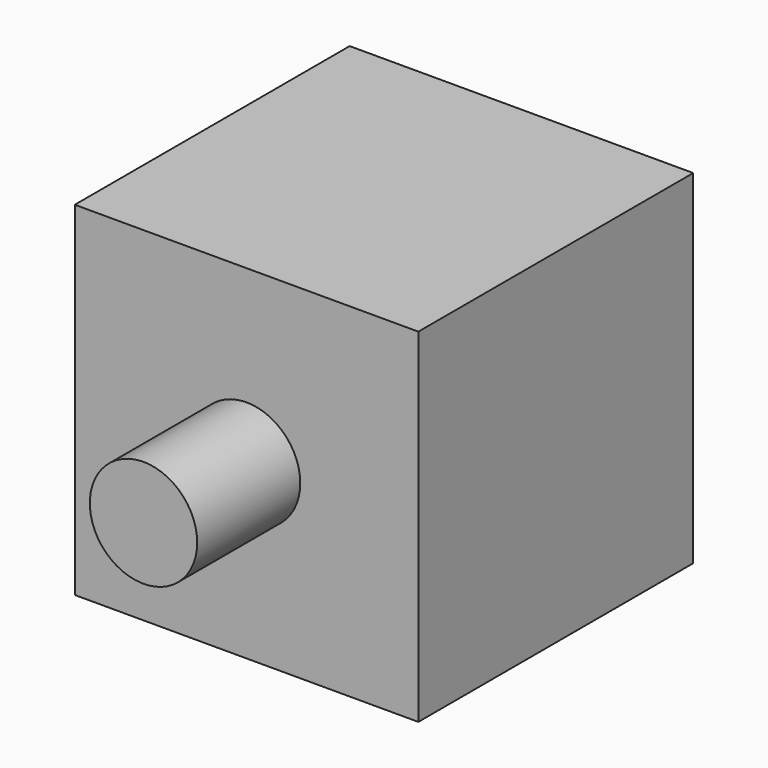
from build123d import *

# Parameters (mm, degrees)
F0_W     = 100
F0_H     = 100
F1_DEPTH = 50
F2_R     = 15.625
F3_DEPTH = 37.5
F2_R_2   = 31.25
F4_DEPTH = 50


with BuildPart() as f1:
    # F0 (on Front) → F1 (new body, symmetric)
    with BuildSketch(Plane.XZ):
        Rectangle(F0_W, F0_H)
    extrude(amount=F1_DEPTH, both=True)

    # F2 (on face) → F3 (join, symmetric)
    with BuildSketch(Plane.XZ.offset(50)):
        Circle(F2_R)
    extrude(amount=F3_DEPTH, both=True)

    # F2 (on face) → F4 (join)
    with BuildSketch(Plane.XZ.offset(50)):
        Circle(F2_R_2)
        Circle(F2_R, mode=Mode.SUBTRACT)
    extrude(amount=-F4_DEPTH)


solid = f1.part
